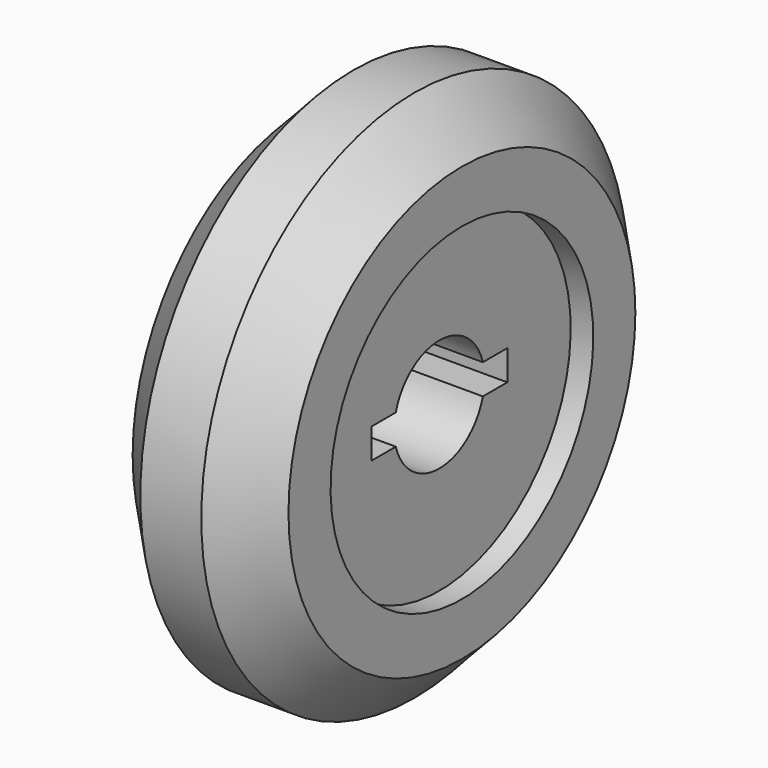
from build123d import *

# Parameters (mm, degrees)
F3_DEPTH = 5.901


with BuildPart() as f1:
    # F0 (on Front) → F1 (revolve)
    with BuildSketch(Plane.XZ):
        Polygon((1.35, 11.8), (0, 11.8), (-1.35, 11.8), (-3.45, 9.6), (-3.45, 7.27), (-2.45, 7.27), (-2.45, 2.5), (2.45, 2.5), (2.45, 7.27), (3.45, 7.27), (3.45, 9.6), align=None)
    revolve(axis=Axis((0.211195, 0, 0), (1, 0, 0)))

    # F2 (on face) → F3 (cut, through all)
    with BuildSketch(Plane.YZ.offset(2.45)):
        with BuildLine():
            Line((-2.409567, 0.666322), (-3.762761, 0.666322))
            Line((-3.762761, 0.666322), (-3.762761, -0.666322))
            Line((-3.762761, -0.666322), (-2.409567, -0.666322))
            ThreePointArc((-2.409567, -0.666322), (-2.5, 0), (-2.409567, 0.666322))
        make_face()
        with BuildLine():
            Line((3.762761, 0.666322), (2.409567, 0.666322))
            ThreePointArc((2.409567, 0.666322), (2.477289, 0.336216), (2.5, 0))
            ThreePointArc((2.5, 0), (2.477289, -0.336216), (2.409567, -0.666322))
            Line((2.409567, -0.666322), (3.762761, -0.666322))
            Line((3.762761, -0.666322), (3.762761, 0.666322))
        make_face()
    extrude(amount=-F3_DEPTH, mode=Mode.SUBTRACT)


solid = f1.part
